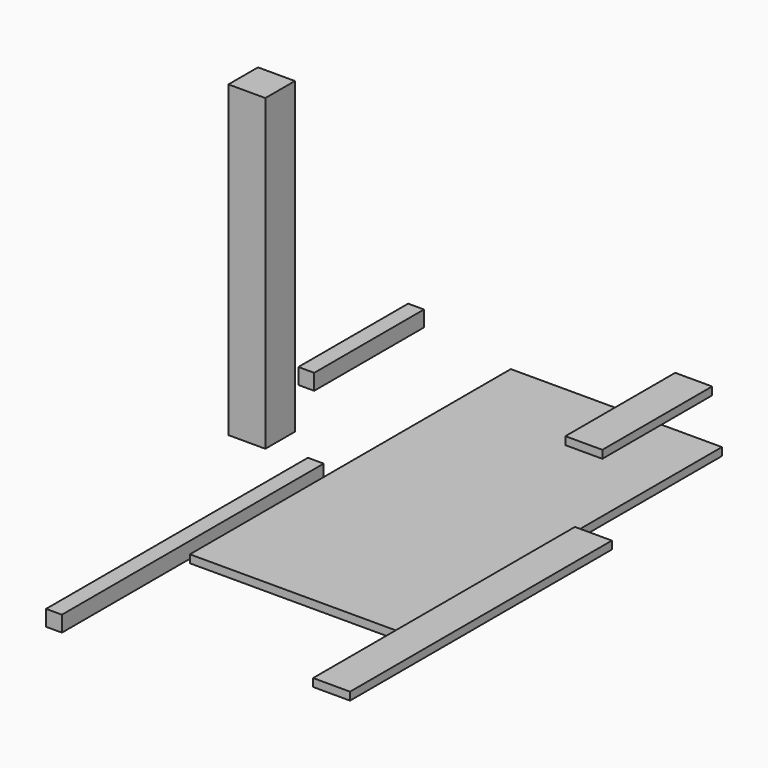
from build123d import *

# Parameters (mm, degrees)
F0_W          = 508
F0_H          = 19.05
F1_DEPTH      = 482.6
F1_DEPTH_BACK = 482.6
F2_W          = 88.9
F2_H          = 88.9
F3_DEPTH      = 742.95
F4_W          = 88.9
F4_H          = 19.05
F4_W_2        = 38.1
F4_H_2        = 38.1
F5_DEPTH      = 330.2
F6_W          = 38.1
F6_H          = 38.1
F6_W_2        = 88.9
F6_H_2        = 19.05
F7_DEPTH      = 787.4


with BuildPart() as f1:
    # F0 (on Front) → F1 (new body, two sides)
    with BuildSketch(Plane.XZ) as f1_sk:
        Rectangle(F0_W, F0_H)
    extrude(amount=F1_DEPTH)
    extrude(f1_sk.sketch, amount=-F1_DEPTH_BACK)


with BuildPart() as f3:
    # F2 (on Top) → F3 (new body)
    with BuildSketch(Plane.XY):
        with Locations((-467.359938, 0)):
            Rectangle(F2_W, F2_H)
    extrude(amount=F3_DEPTH)


with BuildPart() as f5:
    # F4 (on Front) → F5 (new body)
    with BuildSketch(Plane.XZ):
        with Locations((572.053994, 442.484648)):
            Rectangle(F4_W, F4_H)
        with Locations((-95.87417, 370.540144)):
            Rectangle(F4_W_2, F4_H_2)
    extrude(amount=F5_DEPTH)


with BuildPart() as f7:
    # F6 (on Front) → F7 (new body)
    with BuildSketch(Plane.XZ):
        with Locations((-337.139082, -34.384752)):
            Rectangle(F6_W, F6_H)
        with Locations((330.789082, 37.559752)):
            Rectangle(F6_W_2, F6_H_2)
    extrude(amount=F7_DEPTH)


solid = Compound([f1.part, f3.part, f5.part, f7.part])
